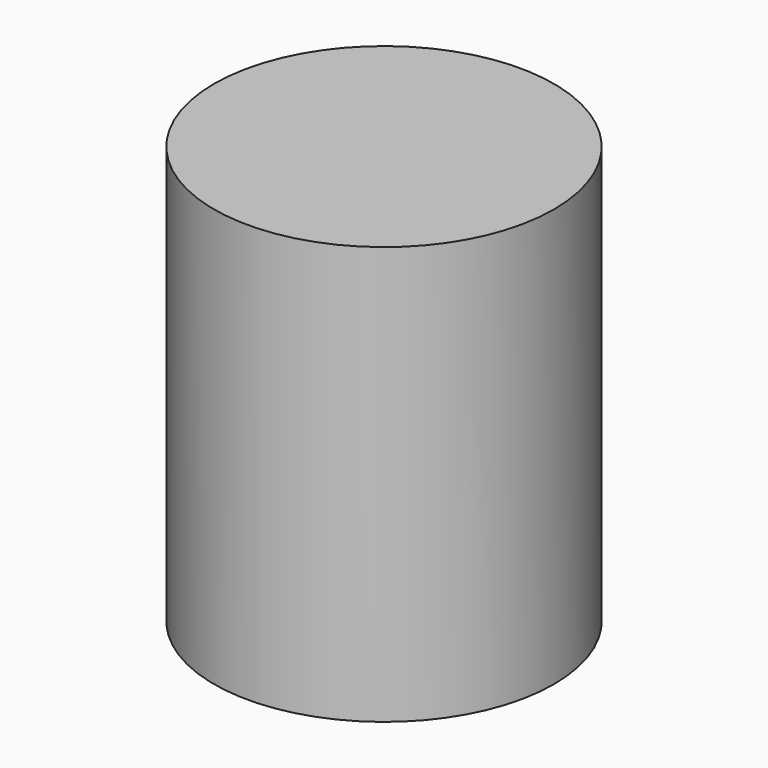
from build123d import *

# Parameters (mm, degrees)
F0_R     = 6.1
F1_DEPTH = 15
F4_R     = 1.089334
F5_DEPTH = 5


with BuildPart() as f1:
    # F0 (on Top) → F1 (new body)
    with BuildSketch(Plane.XY):
        Circle(F0_R)
    extrude(amount=F1_DEPTH)

    # F2 (on Front) → F3 (revolve, cut)
    with BuildSketch(Plane.XZ):
        Polygon((0, 4.542232), (0, 0), (1.185742, 0), align=None)
        Polygon((0, 4.542232), (1.185742, 0), (2.746811, 0), align=None)
    revolve(axis=Axis((0, 0, 2.271116), (0, 0, -1)), mode=Mode.SUBTRACT)

    # F4 (on face) → F5 (cut)
    with BuildSketch(Plane(origin=(0, 0, 0), x_dir=(1, 0, 0), z_dir=(0, 0, -1))):
        Circle(F4_R)
    extrude(amount=-F5_DEPTH, mode=Mode.SUBTRACT)


solid = f1.part
